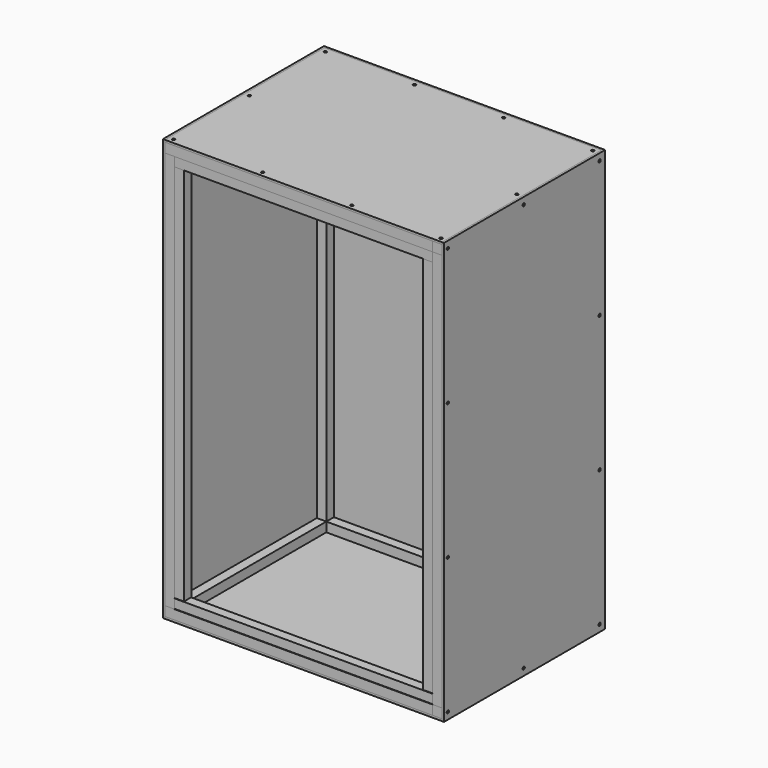
from build123d import *

# Parameters (mm, degrees)
F7_W                     = 788
F7_H                     = 1200
F8_DEPTH                 = 6
F9_W                     = 573
F9_H                     = 1200
F10_DEPTH                = 6
F13_START                = -33
F12_W                    = 27
F12_H                    = 27
F13_DEPTH                = 1134
F14_W                    = 27
F14_H                    = 27
F15_DEPTH                = 761
F16_W                    = 27
F16_H                    = 27
F17_DEPTH                = 540
F27_W                    = 788
F27_H                    = 567
F28_DEPTH                = 6
F30_D                    = 3.5
F30_DEPTH                = 20
F30_CSINK_D              = 8
F30_CSINK_ANGLE          = 90
F30_TIP                  = 1.0515060833
F30_2_D                  = 3.5
F30_2_DEPTH              = 20
F30_2_CSINK_D            = 8
F30_2_CSINK_ANGLE        = 90
F30_2_TIP                = 1.0515060833
F30_3_D                  = 3.5
F30_3_DEPTH              = 20
F30_3_CSINK_D            = 8
F30_3_CSINK_ANGLE        = 90
F30_3_TIP                = 1.0515060833
F30_4_D                  = 3.5
F30_4_DEPTH              = 20
F30_4_CSINK_D            = 8
F30_4_CSINK_ANGLE        = 90
F30_4_TIP                = 1.0515060833
F30_5_D                  = 3.5
F30_5_DEPTH              = 20
F30_5_CSINK_D            = 8
F30_5_CSINK_ANGLE        = 90
F30_5_TIP                = 1.0515060833
F31_D                    = 3.5
F31_DEPTH                = 20
F31_CSINK_D              = 8
F31_CSINK_ANGLE          = 90
F31_TIP                  = 1.0515060833
F31_2_D                  = 3.5
F31_2_DEPTH              = 20
F31_2_CSINK_D            = 8
F31_2_CSINK_ANGLE        = 90
F31_2_TIP                = 1.0515060833
F31_3_D                  = 3.5
F31_3_DEPTH              = 20
F31_3_CSINK_D            = 8
F31_3_CSINK_ANGLE        = 90
F31_3_TIP                = 1.0515060833
F31_4_D                  = 3.5
F31_4_DEPTH              = 20
F31_4_CSINK_D            = 8
F31_4_CSINK_ANGLE        = 90
F31_4_TIP                = 1.0515060833
F31_5_D                  = 3.5
F31_5_DEPTH              = 20
F31_5_CSINK_D            = 8
F31_5_CSINK_ANGLE        = 90
F31_5_TIP                = 1.0515060833
F31_ON_F26_D             = 3.5
F31_ON_F26_DEPTH         = 20
F31_ON_F26_CSINK_D       = 8
F31_ON_F26_CSINK_ANGLE   = 90
F31_ON_F26_TIP           = 1.0515060833
F31_ON_F26_2_D           = 3.5
F31_ON_F26_2_DEPTH       = 20
F31_ON_F26_2_CSINK_D     = 8
F31_ON_F26_2_CSINK_ANGLE = 90
F31_ON_F26_2_TIP         = 1.0515060833
F31_ON_F26_3_D           = 3.5
F31_ON_F26_3_DEPTH       = 20
F31_ON_F26_3_CSINK_D     = 8
F31_ON_F26_3_CSINK_ANGLE = 90
F31_ON_F26_3_TIP         = 1.0515060833
F31_ON_F26_4_D           = 3.5
F31_ON_F26_4_DEPTH       = 20
F31_ON_F26_4_CSINK_D     = 8
F31_ON_F26_4_CSINK_ANGLE = 90
F31_ON_F26_4_TIP         = 1.0515060833
F31_ON_F26_5_D           = 3.5
F31_ON_F26_5_DEPTH       = 20
F31_ON_F26_5_CSINK_D     = 8
F31_ON_F26_5_CSINK_ANGLE = 90
F31_ON_F26_5_TIP         = 1.0515060833
F31_ON_F26_6_D           = 3.5
F31_ON_F26_6_DEPTH       = 20
F31_ON_F26_6_CSINK_D     = 8
F31_ON_F26_6_CSINK_ANGLE = 90
F31_ON_F26_6_TIP         = 1.0515060833
F31_ON_F29_D             = 3.5
F31_ON_F29_DEPTH         = 20
F31_ON_F29_CSINK_D       = 8
F31_ON_F29_CSINK_ANGLE   = 90
F31_ON_F29_TIP           = 1.0515060833
F31_ON_F29_2_D           = 3.5
F31_ON_F29_2_DEPTH       = 20
F31_ON_F29_2_CSINK_D     = 8
F31_ON_F29_2_CSINK_ANGLE = 90
F31_ON_F29_2_TIP         = 1.0515060833
F31_ON_F29_3_D           = 3.5
F31_ON_F29_3_DEPTH       = 20
F31_ON_F29_3_CSINK_D     = 8
F31_ON_F29_3_CSINK_ANGLE = 90
F31_ON_F29_3_TIP         = 1.0515060833
F31_ON_F29_4_D           = 3.5
F31_ON_F29_4_DEPTH       = 20
F31_ON_F29_4_CSINK_D     = 8
F31_ON_F29_4_CSINK_ANGLE = 90
F31_ON_F29_4_TIP         = 1.0515060833
F34_W                    = 27
F34_H                    = 25.9804053307
F35_DEPTH                = 734
F36_W                    = 27
F36_H                    = 27
F37_DEPTH                = 1080


with BuildPart() as f8:
    # F7 (on Front) → F8 (new body)
    with BuildSketch(Plane.XZ):
        with Locations((113, 150)):
            Rectangle(F7_W, F7_H)
    extrude(amount=F8_DEPTH)

    # F30
    with Locations(Plane(origin=(0, 0, 0), x_dir=(1, 0, 0), z_dir=(0, 1, 0))):
        with Locations((113, 430.5), (-267.5, 43.5), (493.5, 43.5), (493.5, -343.5), (113, -730.5), (-267.5, -343.5), (493.5, -730.5), (-267.5, -730.5), (-267.5, 430.5), (493.5, 430.5)):
            CounterSinkHole(F30_D / 2, F30_CSINK_D / 2, depth=F30_DEPTH, counter_sink_angle=F30_CSINK_ANGLE)
            with Locations((0, 0, -(F30_DEPTH + F30_TIP / 2))):  # 118° drill point
                Cone(0, F30_D / 2, F30_TIP, mode=Mode.SUBTRACT)


with BuildPart() as f10:
    # F9 (on face) → F10 (new body)
    with BuildSketch(Plane.YZ.offset(507)):
        with Locations((-286.5, 150)):
            Rectangle(F9_W, F9_H)
    extrude(amount=F10_DEPTH)


with BuildPart() as f13:
    # F12 (on face) → F13 (new body)
    with BuildSketch(Plane(origin=(0, 0, -450), x_dir=(1, 0, 0), z_dir=(0, 0, -1)).offset(F13_START)):
        with Locations((493.5, 19.5)):
            Rectangle(F12_W, F12_H)
    extrude(amount=-F13_DEPTH)


with BuildPart() as f15:
    # F14 (on face) → F15 (new body)
    with BuildSketch(Plane(origin=(507, 0, 0), x_dir=(0, -1, 0), z_dir=(-1, 0, 0))):
        with Locations((19.5, -430.5)):
            Rectangle(F14_W, F14_H)
    extrude(amount=F15_DEPTH)


with BuildPart() as f17:
    # F16 (on face) → F17 (new body)
    with BuildSketch(Plane.XZ.offset(33)):
        with Locations((493.5, -430.5)):
            Rectangle(F16_W, F16_H)
    extrude(amount=F17_DEPTH)


with BuildPart() as f18_1:
    # F18: copy of F13
    add(f13.part.moved(Location((-761, 0, 0))))


with BuildPart() as f19_1:
    # F19: copy of F13
    add(f13.part.moved(Location((0, -540, 0))))

    # F31#4
    with Locations(Plane.YZ.offset(513)):
        with Locations((-289.5, 730.5), (-19.5, 343.5), (-19.5, -43.5), (-289.5, -430.5), (-559.5, -43.5), (-559.5, 343.5), (-559.5, 730.5), (-19.5, 730.5), (-19.5, -430.5), (-559.5, -430.5)):
            CounterSinkHole(F31_4_D / 2, F31_4_CSINK_D / 2, depth=F31_4_DEPTH, counter_sink_angle=F31_4_CSINK_ANGLE)
            with Locations((0, 0, -(F31_4_DEPTH + F31_4_TIP / 2))):  # 118° drill point
                Cone(0, F31_4_D / 2, F31_4_TIP, mode=Mode.SUBTRACT)


with BuildPart() as f19_2:
    # F19: copy of F18_1
    add(f18_1.part.moved(Location((0, -540, 0))))

    # F31 on F26#2
    with Locations(Plane(origin=(-287, 0, 0), x_dir=(0, -1, 0), z_dir=(-1, 0, 0))):
        with Locations((19.5, 730.5), (289.5, 730.5), (559.5, 730.5), (19.5, 343.5), (559.5, 343.5), (559.5, -43.5), (19.5, -43.5), (19.5, -430.5), (289.5, -430.5), (559.5, -430.5)):
            CounterSinkHole(F31_ON_F26_2_D / 2, F31_ON_F26_2_CSINK_D / 2, depth=F31_ON_F26_2_DEPTH, counter_sink_angle=F31_ON_F26_2_CSINK_ANGLE)
            with Locations((0, 0, -(F31_ON_F26_2_DEPTH + F31_ON_F26_2_TIP / 2))):  # 118° drill point
                Cone(0, F31_ON_F26_2_D / 2, F31_ON_F26_2_TIP, mode=Mode.SUBTRACT)


with BuildPart() as f20_1:
    # F20: copy of F15
    add(f15.part.moved(Location((0, 0, 1161))))


with BuildPart() as f21_1:
    # F21: copy of F15
    add(f15.part.moved(Location((-27, -540, 0))))


with BuildPart() as f21_2:
    # F21: copy of F20_1
    add(f20_1.part.moved(Location((-27, -540, 0))))

    # F31 on F26#3
    with Locations(Plane(origin=(-287, 0, 0), x_dir=(0, -1, 0), z_dir=(-1, 0, 0))):
        with Locations((19.5, 730.5), (289.5, 730.5), (559.5, 730.5), (19.5, 343.5), (559.5, 343.5), (559.5, -43.5), (19.5, -43.5), (19.5, -430.5), (289.5, -430.5), (559.5, -430.5)):
            CounterSinkHole(F31_ON_F26_3_D / 2, F31_ON_F26_3_CSINK_D / 2, depth=F31_ON_F26_3_DEPTH, counter_sink_angle=F31_ON_F26_3_CSINK_ANGLE)
            with Locations((0, 0, -(F31_ON_F26_3_DEPTH + F31_ON_F26_3_TIP / 2))):  # 118° drill point
                Cone(0, F31_ON_F26_3_D / 2, F31_ON_F26_3_TIP, mode=Mode.SUBTRACT)

    # F31 on F29
    with Locations(Plane.XY.offset(750)):
        with Locations((-267.5, -19.5), (-13.8333333333, -19.5), (-267.5, -289.5), (-267.5, -559.5), (-13.8333333333, -559.5), (239.8333333333, -559.5), (493.5, -559.5), (493.5, -289.5), (493.5, -19.5), (239.8333333333, -19.5)):
            CounterSinkHole(F31_ON_F29_D / 2, F31_ON_F29_CSINK_D / 2, depth=F31_ON_F29_DEPTH, counter_sink_angle=F31_ON_F29_CSINK_ANGLE)
            with Locations((0, 0, -(F31_ON_F29_DEPTH + F31_ON_F29_TIP / 2))):  # 118° drill point
                Cone(0, F31_ON_F29_D / 2, F31_ON_F29_TIP, mode=Mode.SUBTRACT)


with BuildPart() as f22_1:
    # F22: copy of F17
    add(f17.part.moved(Location((0, 0, 1161))))


with BuildPart() as f23_1:
    # F23: copy of F17
    add(f17.part.moved(Location((-761, 27, 0))))

    # F31 on F26#4
    with Locations(Plane(origin=(-287, 0, 0), x_dir=(0, -1, 0), z_dir=(-1, 0, 0))):
        with Locations((19.5, 730.5), (289.5, 730.5), (559.5, 730.5), (19.5, 343.5), (559.5, 343.5), (559.5, -43.5), (19.5, -43.5), (19.5, -430.5), (289.5, -430.5), (559.5, -430.5)):
            CounterSinkHole(F31_ON_F26_4_D / 2, F31_ON_F26_4_CSINK_D / 2, depth=F31_ON_F26_4_DEPTH, counter_sink_angle=F31_ON_F26_4_CSINK_ANGLE)
            with Locations((0, 0, -(F31_ON_F26_4_DEPTH + F31_ON_F26_4_TIP / 2))):  # 118° drill point
                Cone(0, F31_ON_F26_4_D / 2, F31_ON_F26_4_TIP, mode=Mode.SUBTRACT)


with BuildPart() as f23_2:
    # F23: copy of F22_1
    add(f22_1.part.moved(Location((-761, 27, 0))))

    # F31 on F26#5
    with Locations(Plane(origin=(-287, 0, 0), x_dir=(0, -1, 0), z_dir=(-1, 0, 0))):
        with Locations((19.5, 730.5), (289.5, 730.5), (559.5, 730.5), (19.5, 343.5), (559.5, 343.5), (559.5, -43.5), (19.5, -43.5), (19.5, -430.5), (289.5, -430.5), (559.5, -430.5)):
            CounterSinkHole(F31_ON_F26_5_D / 2, F31_ON_F26_5_CSINK_D / 2, depth=F31_ON_F26_5_DEPTH, counter_sink_angle=F31_ON_F26_5_CSINK_ANGLE)
            with Locations((0, 0, -(F31_ON_F26_5_DEPTH + F31_ON_F26_5_TIP / 2))):  # 118° drill point
                Cone(0, F31_ON_F26_5_D / 2, F31_ON_F26_5_TIP, mode=Mode.SUBTRACT)

    # F31 on F29#3
    with Locations(Plane.XY.offset(750)):
        with Locations((-267.5, -19.5), (-13.8333333333, -19.5), (-267.5, -289.5), (-267.5, -559.5), (-13.8333333333, -559.5), (239.8333333333, -559.5), (493.5, -559.5), (493.5, -289.5), (493.5, -19.5), (239.8333333333, -19.5)):
            CounterSinkHole(F31_ON_F29_3_D / 2, F31_ON_F29_3_CSINK_D / 2, depth=F31_ON_F29_3_DEPTH, counter_sink_angle=F31_ON_F29_3_CSINK_ANGLE)
            with Locations((0, 0, -(F31_ON_F29_3_DEPTH + F31_ON_F29_3_TIP / 2))):  # 118° drill point
                Cone(0, F31_ON_F29_3_D / 2, F31_ON_F29_3_TIP, mode=Mode.SUBTRACT)


with BuildPart() as f24_1:
    # F24: instance of F10
    add(f10.part.mirror(Plane(origin=(480, -303, 730.5), x_dir=(0, -1, 0), z_dir=(-1, 0, 0))))


with BuildPart() as f24_1_1:
    # F25: moved
    add(f24_1.part.moved(Location((-734, 0, 0))))

    # F31 on F26#6
    with Locations(Plane(origin=(-287, 0, 0), x_dir=(0, -1, 0), z_dir=(-1, 0, 0))):
        with Locations((19.5, 730.5), (289.5, 730.5), (559.5, 730.5), (19.5, 343.5), (559.5, 343.5), (559.5, -43.5), (19.5, -43.5), (19.5, -430.5), (289.5, -430.5), (559.5, -430.5)):
            CounterSinkHole(F31_ON_F26_6_D / 2, F31_ON_F26_6_CSINK_D / 2, depth=F31_ON_F26_6_DEPTH, counter_sink_angle=F31_ON_F26_6_CSINK_ANGLE)
            with Locations((0, 0, -(F31_ON_F26_6_DEPTH + F31_ON_F26_6_TIP / 2))):  # 118° drill point
                Cone(0, F31_ON_F26_6_D / 2, F31_ON_F26_6_TIP, mode=Mode.SUBTRACT)


with BuildPart() as f28:
    # F27 (on face) → F28 (new body)
    with BuildSketch(Plane.XY.offset(744)):
        with Locations((113, -289.5)):
            Rectangle(F27_W, F27_H)
    extrude(amount=F28_DEPTH)

    # F31 on F29#4
    with Locations(Plane.XY.offset(750)):
        with Locations((-267.5, -19.5), (-13.8333333333, -19.5), (-267.5, -289.5), (-267.5, -559.5), (-13.8333333333, -559.5), (239.8333333333, -559.5), (493.5, -559.5), (493.5, -289.5), (493.5, -19.5), (239.8333333333, -19.5)):
            CounterSinkHole(F31_ON_F29_4_D / 2, F31_ON_F29_4_CSINK_D / 2, depth=F31_ON_F29_4_DEPTH, counter_sink_angle=F31_ON_F29_4_CSINK_ANGLE)
            with Locations((0, 0, -(F31_ON_F29_4_DEPTH + F31_ON_F29_4_TIP / 2))):  # 118° drill point
                Cone(0, F31_ON_F29_4_D / 2, F31_ON_F29_4_TIP, mode=Mode.SUBTRACT)


with BuildPart() as f13_1:
    add(f13.part)

    # F30#2
    with Locations(Plane(origin=(0, 0, 0), x_dir=(1, 0, 0), z_dir=(0, 1, 0))):
        with Locations((113, 430.5), (-267.5, 43.5), (493.5, 43.5), (493.5, -343.5), (113, -730.5), (-267.5, -343.5), (493.5, -730.5), (-267.5, -730.5), (-267.5, 430.5), (493.5, 430.5)):
            CounterSinkHole(F30_2_D / 2, F30_2_CSINK_D / 2, depth=F30_2_DEPTH, counter_sink_angle=F30_2_CSINK_ANGLE)
            with Locations((0, 0, -(F30_2_DEPTH + F30_2_TIP / 2))):  # 118° drill point
                Cone(0, F30_2_D / 2, F30_2_TIP, mode=Mode.SUBTRACT)

    # F31#2
    with Locations(Plane.YZ.offset(513)):
        with Locations((-289.5, 730.5), (-19.5, 343.5), (-19.5, -43.5), (-289.5, -430.5), (-559.5, -43.5), (-559.5, 343.5), (-559.5, 730.5), (-19.5, 730.5), (-19.5, -430.5), (-559.5, -430.5)):
            CounterSinkHole(F31_2_D / 2, F31_2_CSINK_D / 2, depth=F31_2_DEPTH, counter_sink_angle=F31_2_CSINK_ANGLE)
            with Locations((0, 0, -(F31_2_DEPTH + F31_2_TIP / 2))):  # 118° drill point
                Cone(0, F31_2_D / 2, F31_2_TIP, mode=Mode.SUBTRACT)


with BuildPart() as f15_1:
    add(f15.part)

    # F30#3
    with Locations(Plane(origin=(0, 0, 0), x_dir=(1, 0, 0), z_dir=(0, 1, 0))):
        with Locations((113, 430.5), (-267.5, 43.5), (493.5, 43.5), (493.5, -343.5), (113, -730.5), (-267.5, -343.5), (493.5, -730.5), (-267.5, -730.5), (-267.5, 430.5), (493.5, 430.5)):
            CounterSinkHole(F30_3_D / 2, F30_3_CSINK_D / 2, depth=F30_3_DEPTH, counter_sink_angle=F30_3_CSINK_ANGLE)
            with Locations((0, 0, -(F30_3_DEPTH + F30_3_TIP / 2))):  # 118° drill point
                Cone(0, F30_3_D / 2, F30_3_TIP, mode=Mode.SUBTRACT)


with BuildPart() as f18_1_1:
    add(f18_1.part)

    # F30#4
    with Locations(Plane(origin=(0, 0, 0), x_dir=(1, 0, 0), z_dir=(0, 1, 0))):
        with Locations((113, 430.5), (-267.5, 43.5), (493.5, 43.5), (493.5, -343.5), (113, -730.5), (-267.5, -343.5), (493.5, -730.5), (-267.5, -730.5), (-267.5, 430.5), (493.5, 430.5)):
            CounterSinkHole(F30_4_D / 2, F30_4_CSINK_D / 2, depth=F30_4_DEPTH, counter_sink_angle=F30_4_CSINK_ANGLE)
            with Locations((0, 0, -(F30_4_DEPTH + F30_4_TIP / 2))):  # 118° drill point
                Cone(0, F30_4_D / 2, F30_4_TIP, mode=Mode.SUBTRACT)

    # F31 on F26
    with Locations(Plane(origin=(-287, 0, 0), x_dir=(0, -1, 0), z_dir=(-1, 0, 0))):
        with Locations((19.5, 730.5), (289.5, 730.5), (559.5, 730.5), (19.5, 343.5), (559.5, 343.5), (559.5, -43.5), (19.5, -43.5), (19.5, -430.5), (289.5, -430.5), (559.5, -430.5)):
            CounterSinkHole(F31_ON_F26_D / 2, F31_ON_F26_CSINK_D / 2, depth=F31_ON_F26_DEPTH, counter_sink_angle=F31_ON_F26_CSINK_ANGLE)
            with Locations((0, 0, -(F31_ON_F26_DEPTH + F31_ON_F26_TIP / 2))):  # 118° drill point
                Cone(0, F31_ON_F26_D / 2, F31_ON_F26_TIP, mode=Mode.SUBTRACT)


with BuildPart() as f20_1_1:
    add(f20_1.part)

    # F30#5
    with Locations(Plane(origin=(0, 0, 0), x_dir=(1, 0, 0), z_dir=(0, 1, 0))):
        with Locations((113, 430.5), (-267.5, 43.5), (493.5, 43.5), (493.5, -343.5), (113, -730.5), (-267.5, -343.5), (493.5, -730.5), (-267.5, -730.5), (-267.5, 430.5), (493.5, 430.5)):
            CounterSinkHole(F30_5_D / 2, F30_5_CSINK_D / 2, depth=F30_5_DEPTH, counter_sink_angle=F30_5_CSINK_ANGLE)
            with Locations((0, 0, -(F30_5_DEPTH + F30_5_TIP / 2))):  # 118° drill point
                Cone(0, F30_5_D / 2, F30_5_TIP, mode=Mode.SUBTRACT)


with BuildPart() as f10_1:
    add(f10.part)

    # F31
    with Locations(Plane.YZ.offset(513)):
        with Locations((-289.5, 730.5), (-19.5, 343.5), (-19.5, -43.5), (-289.5, -430.5), (-559.5, -43.5), (-559.5, 343.5), (-559.5, 730.5), (-19.5, 730.5), (-19.5, -430.5), (-559.5, -430.5)):
            CounterSinkHole(F31_D / 2, F31_CSINK_D / 2, depth=F31_DEPTH, counter_sink_angle=F31_CSINK_ANGLE)
            with Locations((0, 0, -(F31_DEPTH + F31_TIP / 2))):  # 118° drill point
                Cone(0, F31_D / 2, F31_TIP, mode=Mode.SUBTRACT)


with BuildPart() as f17_1:
    add(f17.part)

    # F31#3
    with Locations(Plane.YZ.offset(513)):
        with Locations((-289.5, 730.5), (-19.5, 343.5), (-19.5, -43.5), (-289.5, -430.5), (-559.5, -43.5), (-559.5, 343.5), (-559.5, 730.5), (-19.5, 730.5), (-19.5, -430.5), (-559.5, -430.5)):
            CounterSinkHole(F31_3_D / 2, F31_3_CSINK_D / 2, depth=F31_3_DEPTH, counter_sink_angle=F31_3_CSINK_ANGLE)
            with Locations((0, 0, -(F31_3_DEPTH + F31_3_TIP / 2))):  # 118° drill point
                Cone(0, F31_3_D / 2, F31_3_TIP, mode=Mode.SUBTRACT)


with BuildPart() as f22_1_1:
    add(f22_1.part)

    # F31#5
    with Locations(Plane.YZ.offset(513)):
        with Locations((-289.5, 730.5), (-19.5, 343.5), (-19.5, -43.5), (-289.5, -430.5), (-559.5, -43.5), (-559.5, 343.5), (-559.5, 730.5), (-19.5, 730.5), (-19.5, -430.5), (-559.5, -430.5)):
            CounterSinkHole(F31_5_D / 2, F31_5_CSINK_D / 2, depth=F31_5_DEPTH, counter_sink_angle=F31_5_CSINK_ANGLE)
            with Locations((0, 0, -(F31_5_DEPTH + F31_5_TIP / 2))):  # 118° drill point
                Cone(0, F31_5_D / 2, F31_5_TIP, mode=Mode.SUBTRACT)

    # F31 on F29#2
    with Locations(Plane.XY.offset(750)):
        with Locations((-267.5, -19.5), (-13.8333333333, -19.5), (-267.5, -289.5), (-267.5, -559.5), (-13.8333333333, -559.5), (239.8333333333, -559.5), (493.5, -559.5), (493.5, -289.5), (493.5, -19.5), (239.8333333333, -19.5)):
            CounterSinkHole(F31_ON_F29_2_D / 2, F31_ON_F29_2_CSINK_D / 2, depth=F31_ON_F29_2_DEPTH, counter_sink_angle=F31_ON_F29_2_CSINK_ANGLE)
            with Locations((0, 0, -(F31_ON_F29_2_DEPTH + F31_ON_F29_2_TIP / 2))):  # 118° drill point
                Cone(0, F31_ON_F29_2_D / 2, F31_ON_F29_2_TIP, mode=Mode.SUBTRACT)


with BuildPart() as f32_1:
    # F32: instance of F28
    add(f28.part.mirror(Plane(origin=(113, -289.5, 750), x_dir=(1, 0, 0), z_dir=(0, 0, 1))))


with BuildPart() as f32_1_1:
    # F33: moved
    add(f32_1.part.moved(Location((0, 0, -1200))))


with BuildPart() as f35:
    # F34 (on face) → F35 (new body)
    with BuildSketch(Plane.YZ.offset(-254)):
        with Locations((-559.5, 704.0097973347)):
            Rectangle(F34_W, F34_H)
    extrude(amount=F35_DEPTH)


with BuildPart() as f37:
    # F36 (on face) → F37 (new body)
    with BuildSketch(Plane(origin=(0, 0, 691.0195946693), x_dir=(1, 0, 0), z_dir=(0, 0, -1))):
        with Locations((-240.5, 559.5)):
            Rectangle(F36_W, F36_H)
    extrude(amount=F37_DEPTH)


with BuildPart() as f38_1:
    # F38: copy of F35
    add(f35.part.moved(Location((0, 0, -1107))))


with BuildPart() as f39_1:
    # F39: copy of F37
    add(f37.part.moved(Location((707, 0, 0))))


solid = Compound([f8.part, f19_1.part, f19_2.part, f21_1.part, f21_2.part, f23_1.part, f23_2.part, f24_1_1.part, f28.part, f13_1.part, f15_1.part, f18_1_1.part, f20_1_1.part, f10_1.part, f17_1.part, f22_1_1.part, f32_1_1.part, f35.part, f37.part, f38_1.part, f39_1.part])
